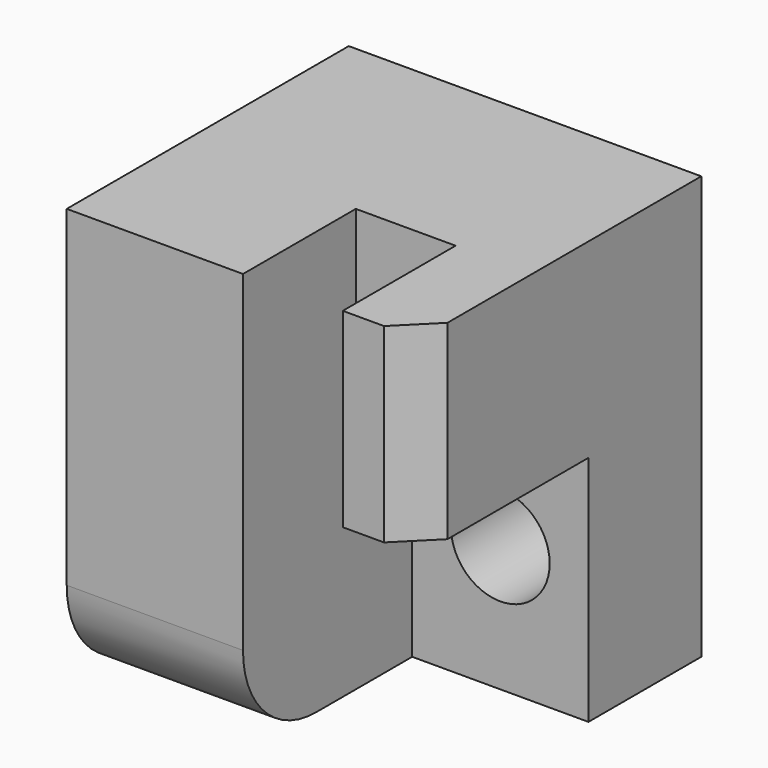
from build123d import *

# Parameters (mm, degrees)
F0_W     = 127
F0_H     = 152.4
F1_DEPTH = 127
F2_W     = 63.5
F2_H     = 83.7710094534
F3_DEPTH = 76.2
F4_R     = 17.78
F5_DEPTH = 50.8
F6_W     = 35.9447933733
F6_H     = 68.6289905466
F7_DEPTH = 50.8
F8_R     = 33.02
F9_SIZE  = 12.7


with BuildPart() as f1:
    # F0 (on Front) → F1 (new body)
    with BuildSketch(Plane.XZ):
        Rectangle(F0_W, F0_H)
    extrude(amount=F1_DEPTH)

    # F2 (on face) → F3 (cut)
    with BuildSketch(Plane.XZ.offset(127)):
        with Locations((31.75, -34.3144952733)):
            Rectangle(F2_W, F2_H)
    extrude(amount=-F3_DEPTH, mode=Mode.SUBTRACT)

    # F4 (on face) → F5 (cut, through all)
    with BuildSketch(Plane.XZ.offset(50.8)):
        with Locations((31.75, -30.5289905466)):
            Circle(F4_R)
    extrude(amount=-F5_DEPTH, mode=Mode.SUBTRACT)

    # F6 (on face) → F7 (cut)
    with BuildSketch(Plane.XZ.offset(127)):
        with Locations((17.9723966867, 41.8855047267)):
            Rectangle(F6_W, F6_H)
    extrude(amount=-F7_DEPTH, mode=Mode.SUBTRACT)

    # F8
    f8_edges = [f1.edges().sort_by_distance(p)[0] for p in [
        (-31.75, -127, -76.2),
    ]]
    fillet(f8_edges, radius=F8_R)

    # F9
    f9_edges = [f1.edges().sort_by_distance(p)[0] for p in [
        (63.5, -127, 41.885505),
    ]]
    chamfer(f9_edges, length=F9_SIZE)


solid = f1.part
